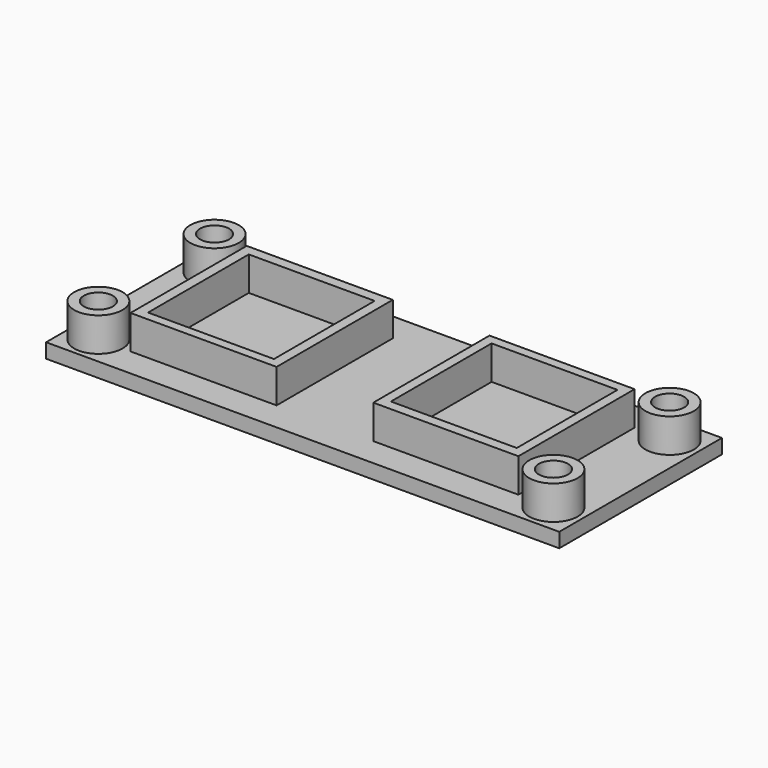
from build123d import *

# Parameters (mm, degrees)
F0_W     = 53
F0_H     = 21
F0_R     = 2.5
F0_W_2   = 15.084836
F0_H_2   = 15
F0_W_3   = 14.984938
F0_W_4   = 13
F0_H_3   = 13
F1_DEPTH = 1.5
F2_DEPTH = 5
F0_R_2   = 1.5
F3_DEPTH = 5


with BuildPart() as f1:
    # F0 (on Top) → F1 (new body)
    with BuildSketch(Plane.XY):
        with Locations((0.118736, -0.1734)):
            Rectangle(F0_W, F0_H)
        with Locations((-23.381264, -7.6734)):
            Circle(F0_R, mode=Mode.SUBTRACT)
        with Locations((-12.518017, -0.1734)):
            Rectangle(F0_W_2, F0_H_2, mode=Mode.SUBTRACT)
        with Locations((23.618736, -7.6734)):
            Circle(F0_R, mode=Mode.SUBTRACT)
        with Locations((12.506826, -0.1734)):
            Rectangle(F0_W_3, F0_H_2, mode=Mode.SUBTRACT)
        with Locations((-23.381264, 7.3266)):
            Circle(F0_R, mode=Mode.SUBTRACT)
        with Locations((23.618736, 7.3266)):
            Circle(F0_R, mode=Mode.SUBTRACT)
        with Locations((-12.518017, -0.1734)):
            Rectangle(F0_W_2, F0_H_2)
        with Locations((-12.5, -0.232354)):
            Rectangle(F0_W_4, F0_H_3, mode=Mode.SUBTRACT)
        with Locations((-12.5, -0.232354)):
            Rectangle(F0_W_4, F0_H_3)
        with Locations((12.506826, -0.1734)):
            Rectangle(F0_W_3, F0_H_2)
        with Locations((12.5, -0.132455)):
            Rectangle(F0_W_4, F0_H_3, mode=Mode.SUBTRACT)
        with Locations((12.5, -0.132455)):
            Rectangle(F0_W_4, F0_H_3)
    extrude(amount=F1_DEPTH)

    # F0 (on Top) → F2 (join)
    with BuildSketch(Plane.XY):
        with Locations((-12.518017, -0.1734)):
            Rectangle(F0_W_2, F0_H_2)
        with Locations((-12.5, -0.232354)):
            Rectangle(F0_W_4, F0_H_3, mode=Mode.SUBTRACT)
        with Locations((12.506826, -0.1734)):
            Rectangle(F0_W_3, F0_H_2)
        with Locations((12.5, -0.132455)):
            Rectangle(F0_W_4, F0_H_3, mode=Mode.SUBTRACT)
    extrude(amount=F2_DEPTH)

    # F0 (on Top) → F3 (join)
    with BuildSketch(Plane.XY):
        with Locations((-23.381264, 7.3266)):
            Circle(F0_R)
        with Locations((-23.381264, 7.3266)):
            Circle(F0_R_2, mode=Mode.SUBTRACT)
        with Locations((-23.381264, -7.6734)):
            Circle(F0_R)
        with Locations((-23.381264, -7.6734)):
            Circle(F0_R_2, mode=Mode.SUBTRACT)
        with Locations((23.618736, -7.6734)):
            Circle(F0_R)
        with Locations((23.618736, -7.6734)):
            Circle(F0_R_2, mode=Mode.SUBTRACT)
        with Locations((23.618736, 7.3266)):
            Circle(F0_R)
        with Locations((23.618736, 7.3266)):
            Circle(F0_R_2, mode=Mode.SUBTRACT)
    extrude(amount=F3_DEPTH)


solid = f1.part
